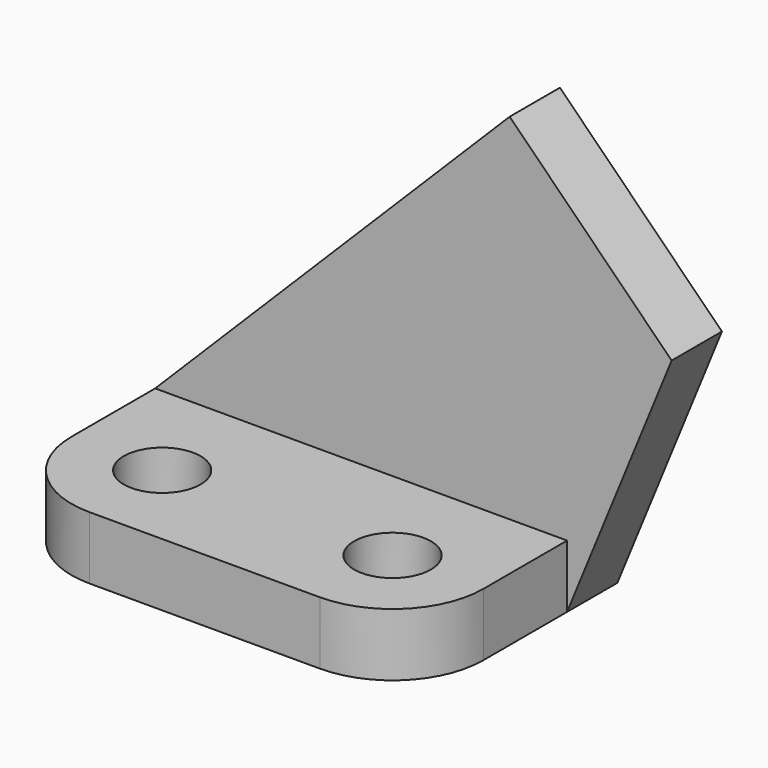
from build123d import *

# Parameters (mm, degrees)
F0_R     = 5.5
F1_DEPTH = 9
F3_DEPTH = 9


with BuildPart() as f1:
    # F0 (on Top) → F1 (new body)
    with BuildSketch(Plane.XY):
        with BuildLine():
            Line((59, 37), (0, 37))
            Line((0, 37), (0, 13))
            ThreePointArc((0, 13), (3.807612, 3.807612), (13, 0))
            Line((13, 0), (46, 0))
            ThreePointArc((46, 0), (55.192388, 3.807612), (59, 13))
            Line((59, 13), (59, 37))
        make_face()
        with Locations((13, 13)):
            Circle(F0_R, mode=Mode.SUBTRACT)
        with Locations((46, 13)):
            Circle(F0_R, mode=Mode.SUBTRACT)
    extrude(amount=F1_DEPTH)

    # F2 (on face) → F3 (join)
    with BuildSketch(Plane(origin=(0, 37, 0), x_dir=(-1, 0, 0), z_dir=(0, 1, 0))):
        Polygon((-59, 9), (0, 9), (-50.777852, 59.777852), (-73.980729, 36.574976), (-59, 0), align=None)
    extrude(amount=-F3_DEPTH)


solid = f1.part
